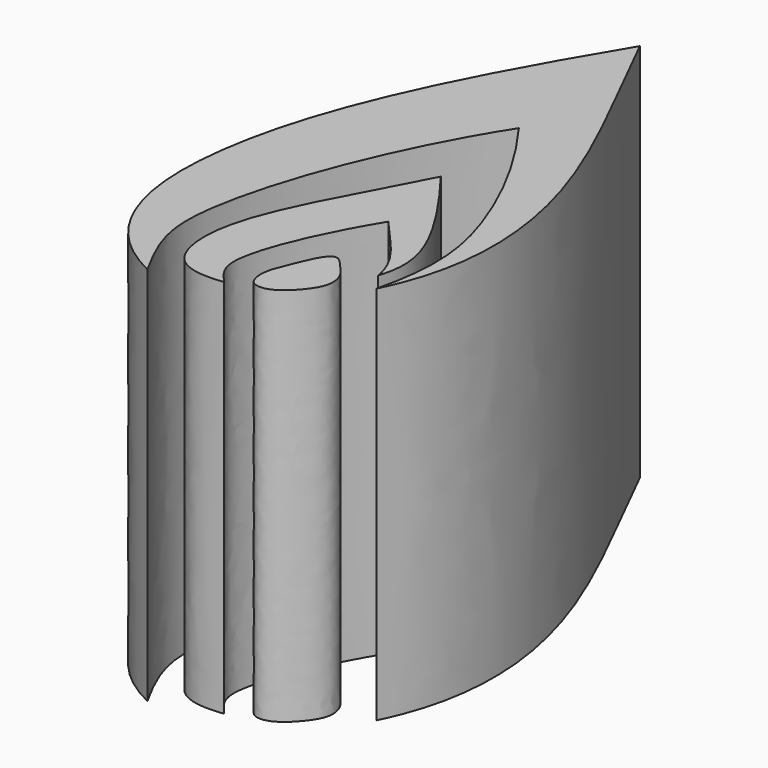
from build123d import *

# Parameters (mm, degrees)
F1_DEPTH = 25


with BuildPart() as f1:
    # F0 (on Top) → F1 (new body)
    with BuildSketch(Plane.XY):
        with BuildLine():
            add(Edge.make_bspline(
                [(-52.9974363744, 20.7852516323), (-50.2757951617, 15.1605252177), (-44.6710266869, 5.4800907667), (-44.5301085711, -4.3748170137), (-46.7074215412, -8.7294438854)],
                knots=[0, 0, 0, 0, 0.5316356339, 1, 1, 1, 1], degree=3))
            add(Edge.make_bspline(
                [(-52.9974363744, 20.7852516323), (-57.8359141946, 12.7412881702), (-64.2734760638, 0.1426304806), (-62.4929443002, -11.8744531646), (-57.2311021388, -14.4146522507)],
                knots=[0, 0, 0, 0, 0.566680098, 1, 1, 1, 1], degree=3))
            add(Edge.make_bspline(
                [(-57.2311021388, -14.4146522507), (-58.7431266904, -11.6930101067), (-60.0889979899, -7.8041864407), (-56.0214854777, 3.7296281662), (-52.1507039666, 9.7777219489)],
                knots=[0, 0, 0, 0, 0.3794684857, 1, 1, 1, 1], degree=3))
            add(Edge.make_bspline(
                [(-52.1507039666, 9.7777219489), (-49.7919470072, 6.5722325817), (-46.6241297533, 0.4921891647), (-45.7397252321, -4.737702664), (-46.7074215412, -8.7294438854)],
                knots=[0, 0, 0, 0, 0.5159864443, 1, 1, 1, 1], degree=3))
        make_face()
    extrude(amount=F1_DEPTH)


with BuildPart() as f1b:
    # F0 (on Top) → F1, piece 2 (new body)
    with BuildSketch(Plane.XY):
        with BuildLine():
            add(Edge.make_bspline(
                [(-51.9135557115, 3.0633846764), (-54.0049374104, -1.0806486243), (-57.7902565815, -7.0924224922), (-57.0311146226, -13.0273550866), (-54.5084178448, -13.2029149681), (-53.2690808177, -13.0479978397)],
                knots=[0, 0, 0, 0, 0.4721353842, 0.7593717025, 1, 1, 1, 1], degree=3))
            add(Edge.make_bspline(
                [(-53.2690808177, -13.0479978397), (-54.1965989754, -12.1204778234), (-54.7932720181, -10.3296628525), (-52.7135841684, -5.5210231409), (-50.8910765232, -2.5352080762)],
                knots=[0, 0, 0, 0, 0.3644339441, 1, 1, 1, 1], degree=3))
            add(Edge.make_bspline(
                [(-50.8910765232, -2.5352080762), (-49.5897966127, -4.1015329771), (-47.8469803929, -5.5345166475), (-47.5477080203, -7.5556505553)],
                knots=[0, 0, 0, 0, 6.031828548, 6.031828548, 6.031828548, 6.031828548], degree=3))
            add(Edge.make_bspline(
                [(-47.5477080203, -7.5556505553), (-47.1885837615, -6.3865608536), (-47.0526977479, -3.7302992847), (-49.9383620918, 0.4685227177), (-51.9135557115, 3.0633846764)],
                knots=[0, 0, 0, 0, 0.3926457033, 1, 1, 1, 1], degree=3))
        make_face()
    extrude(amount=F1_DEPTH)


with BuildPart() as f1c:
    # F0 (on Top) → F1, piece 3 (new body)
    with BuildSketch(Plane.XY):
        with BuildLine():
            add(Edge.make_bspline(
                [(-50.6354905665, -7.3160640895), (-51.0702673118, -7.4605337174), (-51.8848310248, -9.5199897206), (-52.4476000215, -10.811651993), (-52.269940426, -12.3301767035), (-50.8434040716, -12.4208133574), (-49.4921841528, -11.1208995159), (-48.8152250169, -9.9672150807), (-48.9430635904, -8.7943150649), (-49.7699038433, -7.8770136828), (-50.3597416266, -7.2244369564), (-50.6354905665, -7.3160640895)],
                knots=[0, 0, 0, 0, 0.145209616, 0.2667451253, 0.3696004116, 0.4679400624, 0.5958395023, 0.7038956714, 0.8004839263, 0.9079035434, 1, 1, 1, 1], degree=3))
        make_face()
    extrude(amount=F1_DEPTH)


solid = Compound([f1.part, f1b.part, f1c.part])
